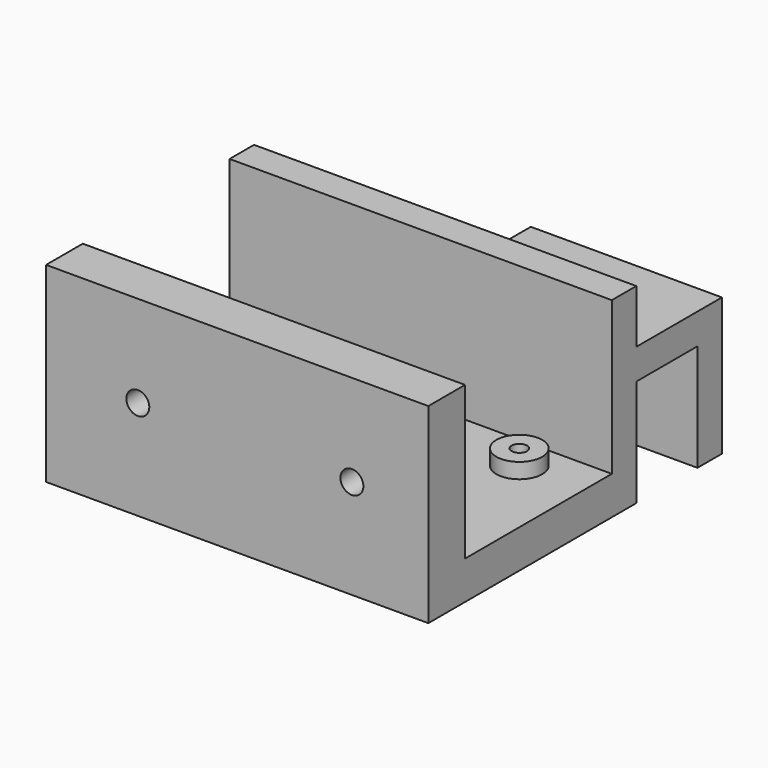
from build123d import *

# Parameters (mm, degrees)
F1_DEPTH  = 50
F2_R      = 1.5
F3_DEPTH  = 6.001
F4_DEPTH  = 3
F5_R      = 1
F6_DEPTH  = 5.001
F5_R_2    = 3
F7_DEPTH  = 2
F9_DEPTH  = 25
F10_R     = 1
F11_DEPTH = 18.001


with BuildPart() as f1:
    # F0 (on Right) → F1 (new body)
    with BuildSketch(Plane.YZ):
        Polygon((6, 5), (6, 25), (0, 25), (0, 0), (34, 0), (34, 25), (30, 25), (30, 5), align=None)
    extrude(amount=F1_DEPTH)

    # F2 (on face) → F3 (cut, through all)
    with BuildSketch(Plane(origin=(0, 6, 0), x_dir=(-1, 0, 0), z_dir=(0, 1, 0))):
        with Locations((-40, 13)):
            Circle(F2_R)
        with Locations((-12, 13)):
            Circle(F2_R)
    extrude(amount=-F3_DEPTH, mode=Mode.SUBTRACT)

    # F2 (on face) → F4 (cut, through all)
    with BuildSketch(Plane(origin=(0, 6, 0), x_dir=(-1, 0, 0), z_dir=(0, 1, 0))):
        Polygon((-41.5877132403, 15.75), (-43.1754264805, 13), (-41.5877132403, 10.25), (-38.4122867597, 10.25), (-36.8245735195, 13), (-38.4122867597, 15.75), align=None)
        with Locations((-40, 13)):
            Circle(F2_R, mode=Mode.SUBTRACT)
        Polygon((-13.5877132403, 15.75), (-15.1754264805, 13), (-13.5877132403, 10.25), (-10.4122867597, 10.25), (-8.8245735195, 13), (-10.4122867597, 15.75), align=None)
        with Locations((-12, 13)):
            Circle(F2_R, mode=Mode.SUBTRACT)
    extrude(amount=-F4_DEPTH, mode=Mode.SUBTRACT)

    # F5 (on face) → F6 (cut, through all)
    with BuildSketch(Plane.XY.offset(5)):
        with Locations((8.5, 14)):
            Circle(F5_R)
        with Locations((41.5, 25.5)):
            Circle(F5_R)
    extrude(amount=-F6_DEPTH, mode=Mode.SUBTRACT)

    # F5 (on face) → F7 (join)
    with BuildSketch(Plane.XY.offset(5)):
        with Locations((8.5, 14)):
            Circle(F5_R_2)
        with Locations((8.5, 14)):
            Circle(F5_R, mode=Mode.SUBTRACT)
        with Locations((41.5, 25.5)):
            Circle(F5_R_2)
        with Locations((41.5, 25.5)):
            Circle(F5_R, mode=Mode.SUBTRACT)
    extrude(amount=F7_DEPTH)

    # F8 (on face) → F9 (join)
    with BuildSketch(Plane.YZ.offset(50)):
        Polygon((48, 18), (34, 18), (34, 14), (44, 14), (44, 0), (48, 0), align=None)
    extrude(amount=-F9_DEPTH)

    # F10 (on face) → F11 (cut, through all)
    with BuildSketch(Plane.XY.offset(18)):
        with Locations((37.5, 39)):
            Circle(F10_R)
    extrude(amount=-F11_DEPTH, mode=Mode.SUBTRACT)


solid = f1.part
